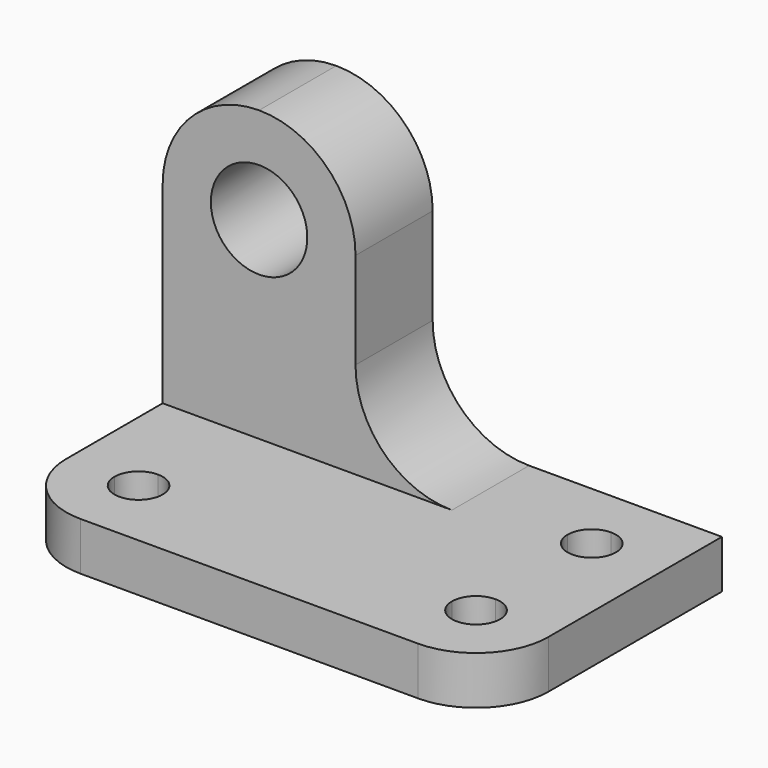
from build123d import *

# Parameters (mm, degrees)
F1_DEPTH = 63.5
F3_DEPTH = 12.701
F5_DEPTH = 6.351


with BuildPart() as f1:
    # F0 (on Right) → F1 (new body)
    with BuildSketch(Plane.YZ):
        Polygon((-25.4, 0), (12.7, 0), (12.7, 44.45), (0, 44.45), (0, 6.35), (-25.4, 6.35), align=None)
    extrude(amount=F1_DEPTH)

    # F2 (on face) → F3 (cut, through all)
    with BuildSketch(Plane.XZ):
        with BuildLine():
            Line((38.1, 31.75), (38.1, 44.45))
            Line((38.1, 44.45), (25.4, 44.45))
            Line((25.4, 44.45), (25.4, 31.75))
            Line((25.4, 31.75), (25.4, 19.05))
            ThreePointArc((25.4, 19.05), (29.1197438789, 28.0302561211), (38.1, 31.75))
        make_face()
        with BuildLine():
            Line((63.5, 44.45), (38.1, 44.45))
            Line((38.1, 44.45), (38.1, 31.75))
            ThreePointArc((38.1, 31.75), (47.0802561211, 28.0302561211), (50.8, 19.05))
            Line((50.8, 19.05), (63.5, 19.05))
            Line((63.5, 19.05), (63.5, 44.45))
        make_face()
        with BuildLine():
            ThreePointArc((50.8, 19.05), (47.0802561211, 28.0302561211), (38.1, 31.75))
            Line((38.1, 31.75), (38.1, 19.05))
            Line((38.1, 19.05), (50.8, 19.05))
        make_face()
        with BuildLine():
            Line((38.1, 19.05), (38.1, 31.75))
            ThreePointArc((38.1, 31.75), (29.1197438789, 28.0302561211), (25.4, 19.05))
            Line((25.4, 19.05), (38.1, 19.05))
        make_face()
        with BuildLine():
            Line((38.1, 6.35), (38.1, 19.05))
            Line((38.1, 19.05), (25.4, 19.05))
            ThreePointArc((25.4, 19.05), (29.1197438789, 10.0697438789), (38.1, 6.35))
        make_face()
        with BuildLine():
            Line((50.8, 19.05), (38.1, 19.05))
            Line((38.1, 19.05), (38.1, 6.35))
            ThreePointArc((38.1, 6.35), (47.0802561211, 10.0697438789), (50.8, 19.05))
        make_face()
        with BuildLine():
            Line((63.5, 19.05), (50.8, 19.05))
            ThreePointArc((50.8, 19.05), (47.0802561211, 10.0697438789), (38.1, 6.35))
            Line((38.1, 6.35), (63.5, 6.35))
            Line((63.5, 6.35), (63.5, 19.05))
        make_face()
        with BuildLine():
            Line((25.4, 31.75), (25.4, 44.45))
            Line((25.4, 44.45), (12.7, 44.45))
            ThreePointArc((12.7, 44.45), (21.6802561211, 40.7302561211), (25.4, 31.75))
        make_face()
        with BuildLine():
            ThreePointArc((0, 31.75), (3.7197438789, 40.7302561211), (12.7, 44.45))
            Line((12.7, 44.45), (0, 44.45))
            Line((0, 44.45), (0, 31.75))
        make_face()
        with BuildLine():
            Line((6.35, 31.75), (19.05, 31.75))
            ThreePointArc((19.05, 31.75), (12.7, 38.1), (6.35, 31.75))
        make_face()
        with BuildLine():
            ThreePointArc((6.35, 31.75), (12.7, 25.4), (19.05, 31.75))
            Line((19.05, 31.75), (6.35, 31.75))
        make_face()
    extrude(amount=-F3_DEPTH, mode=Mode.SUBTRACT)

    # F4 (on face) → F5 (cut, through all)
    with BuildSketch(Plane.XY.offset(6.35)):
        with BuildLine():
            Line((53.975, 3.175), (57.15, 3.175))
            ThreePointArc((57.15, 3.175), (56.2200640303, 5.4200640303), (53.975, 6.35))
            Line((53.975, 6.35), (53.975, 3.175))
        make_face()
        with BuildLine():
            Line((50.8, 3.175), (53.975, 3.175))
            Line((53.975, 3.175), (53.975, 6.35))
            ThreePointArc((53.975, 6.35), (51.7299359697, 5.4200640303), (50.8, 3.175))
        make_face()
        with BuildLine():
            ThreePointArc((50.8, 3.175), (51.7299359697, 0.9299359697), (53.975, 0))
            Line((53.975, 0), (53.975, 3.175))
            Line((53.975, 3.175), (50.8, 3.175))
        make_face()
        with BuildLine():
            Line((53.975, 3.175), (53.975, 0))
            ThreePointArc((53.975, 0), (56.2200640303, 0.9299359697), (57.15, 3.175))
            Line((57.15, 3.175), (53.975, 3.175))
        make_face()
        with BuildLine():
            Line((53.975, -15.875), (57.15, -15.875))
            ThreePointArc((57.15, -15.875), (56.2200640303, -13.6299359697), (53.975, -12.7))
            Line((53.975, -12.7), (53.975, -15.875))
        make_face()
        with BuildLine():
            Line((50.8, -15.875), (53.975, -15.875))
            Line((53.975, -15.875), (53.975, -12.7))
            ThreePointArc((53.975, -12.7), (51.7299359697, -13.6299359697), (50.8, -15.875))
        make_face()
        with BuildLine():
            Line((53.975, -19.05), (53.975, -15.875))
            Line((53.975, -15.875), (50.8, -15.875))
            ThreePointArc((50.8, -15.875), (51.7299359697, -18.1200640303), (53.975, -19.05))
        make_face()
        with BuildLine():
            ThreePointArc((53.975, -19.05), (56.2200640303, -18.1200640303), (57.15, -15.875))
            Line((57.15, -15.875), (53.975, -15.875))
            Line((53.975, -15.875), (53.975, -19.05))
        make_face()
        with BuildLine():
            Line((63.5, -25.4), (63.5, -15.875))
            ThreePointArc((63.5, -15.875), (60.7101920908, -22.6101920908), (53.975, -25.4))
            Line((53.975, -25.4), (63.5, -25.4))
        make_face()
        with BuildLine():
            Line((0, -25.4), (9.525, -25.4))
            ThreePointArc((9.525, -25.4), (2.7898079092, -22.6101920908), (0, -15.875))
            Line((0, -15.875), (0, -25.4))
        make_face()
        with BuildLine():
            ThreePointArc((6.35, -15.875), (7.2799359697, -18.1200640303), (9.525, -19.05))
            Line((9.525, -19.05), (9.525, -15.875))
            Line((9.525, -15.875), (6.35, -15.875))
        make_face()
        with BuildLine():
            Line((6.35, -15.875), (9.525, -15.875))
            Line((9.525, -15.875), (9.525, -12.7))
            ThreePointArc((9.525, -12.7), (7.2799359697, -13.6299359697), (6.35, -15.875))
        make_face()
        with BuildLine():
            Line((9.525, -15.875), (12.7, -15.875))
            ThreePointArc((12.7, -15.875), (11.7700640303, -13.6299359697), (9.525, -12.7))
            Line((9.525, -12.7), (9.525, -15.875))
        make_face()
        with BuildLine():
            ThreePointArc((9.525, -19.05), (11.7700640303, -18.1200640303), (12.7, -15.875))
            Line((12.7, -15.875), (9.525, -15.875))
            Line((9.525, -15.875), (9.525, -19.05))
        make_face()
    extrude(amount=-F5_DEPTH, mode=Mode.SUBTRACT)


solid = f1.part
